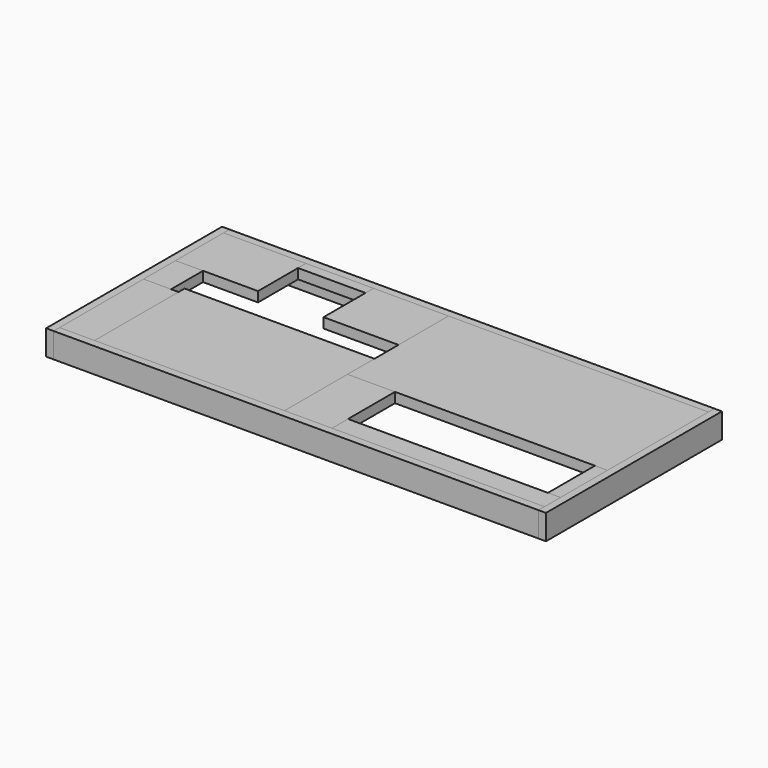
from build123d import *

# Parameters (mm, degrees)
BOX001_W     = 85
BOX001_H     = 8
BOX001_DEPTH = 4
BOX002_W     = 5
BOX002_H     = 23.5
BOX002_DEPTH = 4
BOX003_W     = 104
BOX003_H     = 50.5
BOX003_DEPTH = 4
BOX004_W     = 19
BOX004_H     = 31.5
BOX004_DEPTH = 4
BOX005_W     = 76
BOX005_H     = 45
BOX005_DEPTH = 4
BOX006_W     = 30
BOX006_H     = 25
BOX006_DEPTH = 4
BOX007_W     = 14
BOX007_H     = 42
BOX007_DEPTH = 4
BOX008_W     = 33
BOX008_H     = 24
BOX008_DEPTH = 4
BOX009_W     = 11
BOX009_H     = 16
BOX009_DEPTH = 4
BOX_W        = 194
BOX_H        = 3
BOX_DEPTH    = 10
BOX011_W     = 3
BOX011_H     = 88
BOX011_DEPTH = 10
BOX012_W     = 3
BOX012_H     = 88
BOX012_DEPTH = 10
BOX013_W     = 27
BOX013_H     = 4
BOX013_DEPTH = 4
BOX010_W     = 194
BOX010_H     = 3
BOX010_DEPTH = 10


with BuildPart() as box001:
    # Box001 → Box001 (new body)
    with BuildSketch(Plane(origin=(109, -3, 10), x_dir=(1, 0, 0), z_dir=(0, 0, 1))):
        with Locations((42.5, 4)):
            Rectangle(BOX001_W, BOX001_H)
    extrude(amount=BOX001_DEPTH)


with BuildPart() as box002:
    # Box002 → Box002 (new body)
    with BuildSketch(Plane(origin=(189, 5, 10), x_dir=(1, 0, 0), z_dir=(0, 0, 1))):
        with Locations((2.5, 11.75)):
            Rectangle(BOX002_W, BOX002_H)
    extrude(amount=BOX002_DEPTH)


with BuildPart() as box003:
    # Box003 → Box003 (new body)
    with BuildSketch(Plane(origin=(90, 28.5, 10), x_dir=(1, 0, 0), z_dir=(0, 0, 1))):
        with Locations((52, 25.25)):
            Rectangle(BOX003_W, BOX003_H)
    extrude(amount=BOX003_DEPTH)


with BuildPart() as box004:
    # Box004 → Box004 (new body)
    with BuildSketch(Plane(origin=(90, -3, 10), x_dir=(1, 0, 0), z_dir=(0, 0, 1))):
        with Locations((9.5, 15.75)):
            Rectangle(BOX004_W, BOX004_H)
    extrude(amount=BOX004_DEPTH)


with BuildPart() as box005:
    # Box005 → Box005 (new body)
    with BuildSketch(Plane(origin=(14, -3, 10), x_dir=(1, 0, 0), z_dir=(0, 0, 1))):
        with Locations((38, 22.5)):
            Rectangle(BOX005_W, BOX005_H)
    extrude(amount=BOX005_DEPTH)


with BuildPart() as box006:
    # Box006 → Box006 (new body)
    with BuildSketch(Plane(origin=(60, 54, 10), x_dir=(1, 0, 0), z_dir=(0, 0, 1))):
        with Locations((15, 12.5)):
            Rectangle(BOX006_W, BOX006_H)
    extrude(amount=BOX006_DEPTH)


with BuildPart() as box007:
    # Box007 → Box007 (new body)
    with BuildSketch(Plane(origin=(0, -3, 10), x_dir=(1, 0, 0), z_dir=(0, 0, 1))):
        with Locations((7, 21)):
            Rectangle(BOX007_W, BOX007_H)
    extrude(amount=BOX007_DEPTH)


with BuildPart() as box008:
    # Box008 → Box008 (new body)
    with BuildSketch(Plane(origin=(0, 55, 10), x_dir=(1, 0, 0), z_dir=(0, 0, 1))):
        with Locations((16.5, 12)):
            Rectangle(BOX008_W, BOX008_H)
    extrude(amount=BOX008_DEPTH)


with BuildPart() as box009:
    # Box009 → Box009 (new body)
    with BuildSketch(Plane(origin=(0, 39, 10), x_dir=(1, 0, 0), z_dir=(0, 0, 1))):
        with Locations((5.5, 8)):
            Rectangle(BOX009_W, BOX009_H)
    extrude(amount=BOX009_DEPTH)


with BuildPart() as box:
    # Box → Box (new body)
    with BuildSketch(Plane(origin=(0, 79, 4), x_dir=(1, 0, 0), z_dir=(0, 0, 1))):
        with Locations((97, 1.5)):
            Rectangle(BOX_W, BOX_H)
    extrude(amount=BOX_DEPTH)


with BuildPart() as box011:
    # Box011 → Box011 (new body)
    with BuildSketch(Plane(origin=(194, -6, 4), x_dir=(1, 0, 0), z_dir=(0, 0, 1))):
        with Locations((1.5, 44)):
            Rectangle(BOX011_W, BOX011_H)
    extrude(amount=BOX011_DEPTH)


with BuildPart() as box012:
    # Box012 → Box012 (new body)
    with BuildSketch(Plane(origin=(-3, -6, 4), x_dir=(1, 0, 0), z_dir=(0, 0, 1))):
        with Locations((1.5, 44)):
            Rectangle(BOX012_W, BOX012_H)
    extrude(amount=BOX012_DEPTH)


with BuildPart() as box013:
    # Box013 → Box013 (new body)
    with BuildSketch(Plane(origin=(33, 75, 10), x_dir=(1, 0, 0), z_dir=(0, 0, 1))):
        with Locations((13.5, 2)):
            Rectangle(BOX013_W, BOX013_H)
    extrude(amount=BOX013_DEPTH)


with BuildPart() as box010:
    # Box010 → Box010 (new body)
    with BuildSketch(Plane(origin=(0, -6, 4), x_dir=(1, 0, 0), z_dir=(0, 0, 1))):
        with Locations((97, 1.5)):
            Rectangle(BOX010_W, BOX010_H)
    extrude(amount=BOX010_DEPTH)


solid = Compound([box001.part, box002.part, box003.part, box004.part, box005.part, box006.part, box007.part, box008.part, box009.part, box.part, box011.part, box012.part, box013.part, box010.part])
